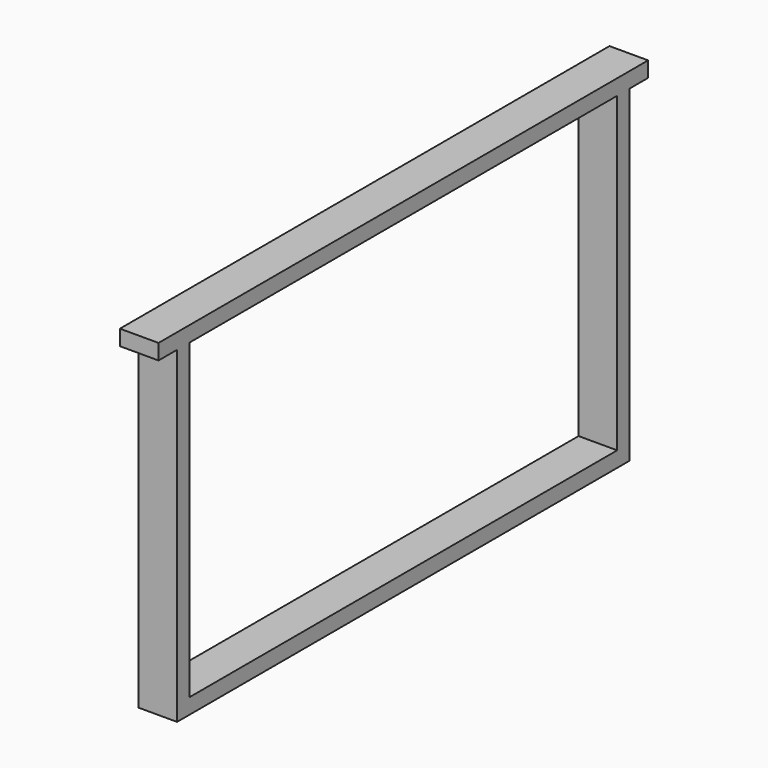
from build123d import *

# Parameters (mm, degrees)
F0_W     = 10
F0_H     = 202
F1_DEPTH = 25


with BuildPart() as f1:
    # F0 (on Right) → F1 (new body)
    with BuildSketch(Plane.YZ):
        Polygon((183, 151.398099), (198, 151.398099), (198, 161.398099), (-198, 161.398099), (-198, 151.398099), (-183, 151.398099), (-173, 151.398099), (173, 151.398099), align=None)
        with Locations((-178, 50.398099)):
            Rectangle(F0_W, F0_H)
        Polygon((183, -60.601901), (183, -50.601901), (173, -50.601901), (-173, -50.601901), (-183, -50.601901), (-183, -60.601901), align=None)
        with Locations((178, 50.398099)):
            Rectangle(F0_W, F0_H)
    extrude(amount=F1_DEPTH)


solid = f1.part
